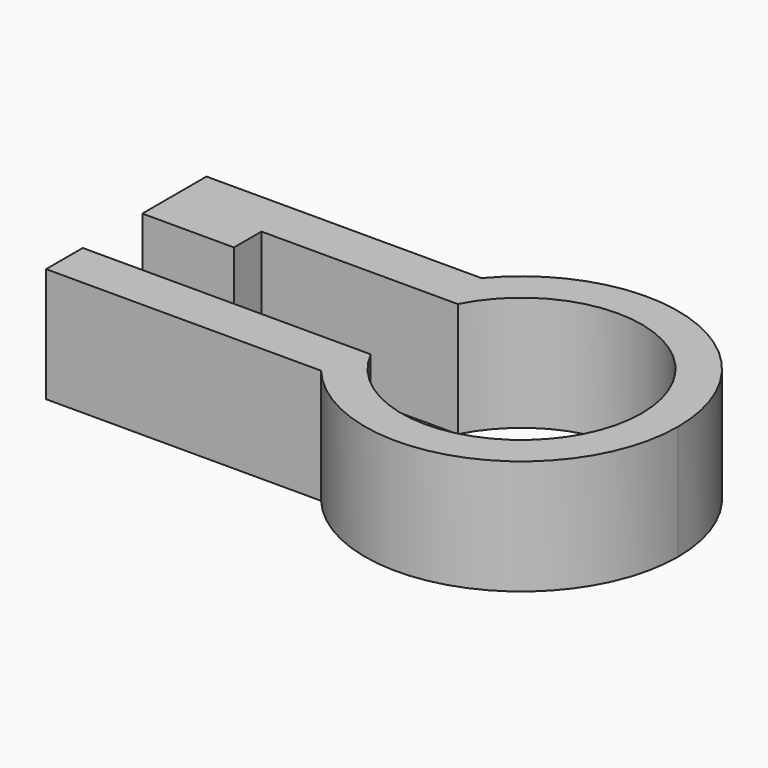
from build123d import *

# Parameters (mm, degrees)
F0_W     = 8
F0_H     = 3
F1_DEPTH = 10


with BuildPart() as f1:
    # F0 (on Top) → F1 (new body)
    with BuildSketch(Plane.XY):
        with BuildLine():
            Line((-2.316006, 0), (-24, 0))
            Line((-24, 0), (-24, -4))
            Line((-24, -4), (0, -4))
            ThreePointArc((0, -4), (-1.328315, -2.098611), (-2.316006, 0))
        make_face()
        with BuildLine():
            Line((-24, 13.5), (-24, 9.5))
            Line((-24, 9.5), (-16, 9.5))
            Line((-16, 9.5), (-2.316006, 9.5))
            ThreePointArc((-2.316006, 9.5), (-1.328315, 11.598611), (0, 13.5))
            Line((0, 13.5), (-24, 13.5))
        make_face()
        with Locations((-20, 8)):
            Rectangle(F0_W, F0_H)
        with BuildLine():
            ThreePointArc((0, 13.5), (-1.328315, 11.598611), (-2.316006, 9.5))
            Line((-2.316006, 9.5), (0, 9.5))
            Line((0, 9.5), (0, 13.5))
        make_face()
        with BuildLine():
            ThreePointArc((24.167937, 4.75), (15.152911, 17.601573), (0, 13.5))
            Line((0, 13.5), (0, 9.5))
            Line((0, 9.5), (1.13584, 9.5))
            ThreePointArc((1.13584, 9.5), (12.941958, 14.962093), (21, 4.75))
            ThreePointArc((21, 4.75), (12.941958, -5.462093), (1.13584, 0))
            Line((1.13584, 0), (0, 0))
            Line((0, 0), (0, -4))
            ThreePointArc((0, -4), (15.152911, -8.101573), (24.167937, 4.75))
        make_face()
        with BuildLine():
            Line((0, 0), (-2.316006, 0))
            ThreePointArc((-2.316006, 0), (-1.328315, -2.098611), (0, -4))
            Line((0, -4), (0, 0))
        make_face()
    extrude(amount=F1_DEPTH)


solid = f1.part
